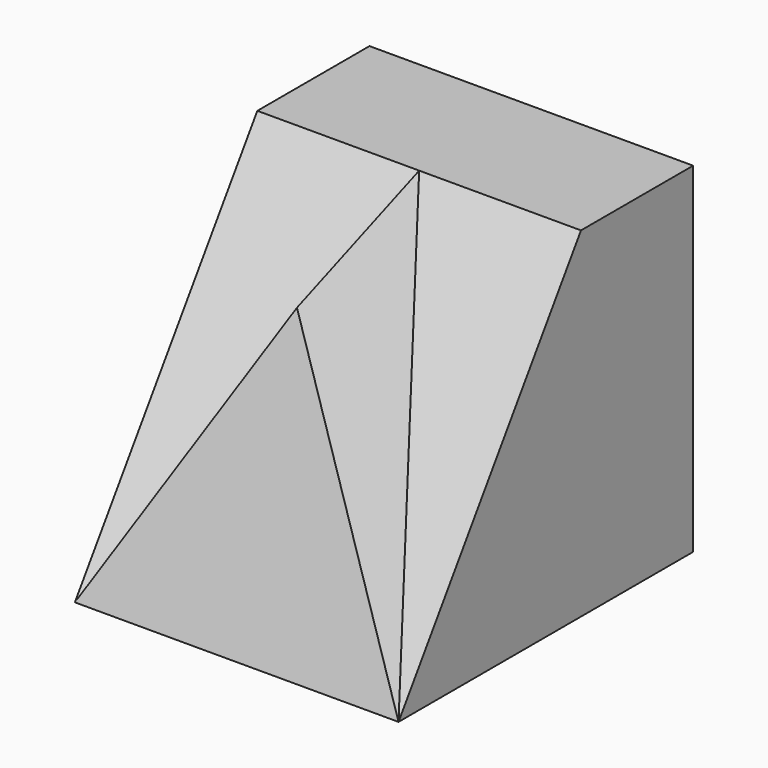
from build123d import *

# Parameters (mm, degrees)
F1_DEPTH = 30


with BuildPart() as f1:
    # F0 (on Right) → F1 (new body, symmetric)
    with BuildSketch(Plane.YZ):
        Polygon((-68.2660415769, 0), (0, 0), (0, 63.0297288299), (-25.9876437485, 63.0297288299), align=None)
    extrude(amount=F1_DEPTH, both=True)

    # F2 (on face) → F3 section 0
    with BuildSketch(Plane(origin=(0, -47.0822608024, 31.5813282052), x_dir=(1, 0, 0), z_dir=(0, -0.8304744848, 0.5570566669)), mode=Mode.PRIVATE) as f3_s0:
        Polygon((0, 37.8679913713), (-30, -38.0280535803), (30, -38.0280535803), align=None)
    loft([f3_s0.sketch, Vertex(0, -54.3025322258, 52.1692186594)])


solid = f1.part
